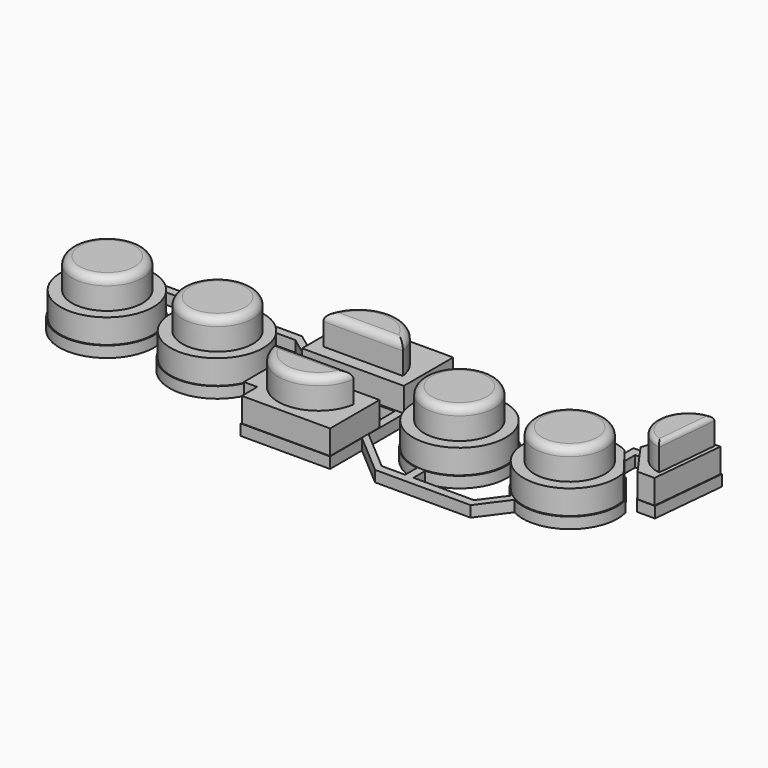
from build123d import *

# Parameters (mm, degrees)
SKETCH015_W  = 7.8
SKETCH015_H  = 2.526756
PAD006_DEPTH = 1
SKETCH059_R  = 4.2
SKETCH059_W  = 9.22
SKETCH059_H  = 5.59297
PAD029_DEPTH = 2.2
SKETCH016_R  = 3.2
PAD030_DEPTH = 2.7
PAD031_DEPTH = 2.4
FILLET009_R  = 0.7
FILLET010_R  = 0.4


with BuildPart() as part:
    # Sketch015 → Pad006 (new body)
    with BuildSketch(Plane.XY.offset(10)):
        with BuildLine():
            ThreePointArc((-21.434946, -34.322054), (-20.939825, -42.899579), (-20.684946, -34.311557))
            Line((-20.684946, -34.311557), (-20.684946, -32.962922))
            Line((-20.684946, -32.962922), (-11.395895, -32.962922))
            Line((-11.395895, -34.318264), (-11.395895, -32.962922))
            ThreePointArc((-11.395895, -34.318264), (-10.979025, -42.899949), (-10.645895, -34.314605))
            Line((-10.645895, -32.962922), (-10.645895, -34.314605))
            Line((-8.419281, -32.962922), (-10.645895, -32.962922))
            Line((-8.419281, -32.962922), (-4.65, -35.730724))
            Line((-4.65, -43.625105), (-4.65, -35.730724))
            Line((-4.65, -43.625105), (-3.46, -43.625105))
            Line((-3.46, -43.625105), (-3.46, -45.365105))
            Line((4.65, -45.365105), (-3.46, -45.365105))
            Line((4.65, -41.749486), (4.65, -45.365105))
            Line((8.419281, -44.977811), (4.65, -41.749486))
            Line((17.078636, -44.977811), (8.419281, -44.977811))
            Line((18.986577, -42.399491), (17.078636, -44.977811))
            ThreePointArc((18.986577, -42.399491), (23.654647, -41.982728), (25.169219, -37.547569))
            Line((23.057843, -34.824383), (25.169219, -37.547569))
            ThreePointArc((23.057843, -34.824383), (22.242657, -34.483472), (21.375, -34.316383))
            Line((21.375, -34.316383), (21.375, -31.700371))
            Line((21.375, -31.700371), (24.243538, -31.700371))
            Line((23.502604, -33.839909), (24.243538, -31.700371))
            Line((25.727333, -36.92627), (23.502604, -33.839909))
            Line((27.348097, -36.92627), (25.727333, -36.92627))
            Line((27.998604, -30.147995), (27.348097, -36.92627))
            Line((26.151167, -30.147995), (27.998604, -30.147995))
            Line((24.666729, -30.478357), (26.151167, -30.147995))
            Line((24.503268, -30.950371), (24.666729, -30.478357))
            Line((24.503268, -30.950371), (20.625, -30.950371))
            Line((20.625, -30.950371), (20.625, -34.316383))
            ThreePointArc((20.625, -34.316383), (16.866436, -37.415242), (18.412813, -42.034598))
            Line((18.412813, -42.034598), (16.789849, -44.227811))
            Line((16.789849, -44.227811), (11.297529, -44.227811))
            Line((11.297529, -44.227811), (11.297529, -42.889694))
            ThreePointArc((11.297529, -42.889694), (11.077768, -34.300703), (10.547529, -42.876128))
            Line((10.547529, -44.227811), (10.547529, -42.876128))
            Line((8.419281, -44.227811), (10.547529, -44.227811))
            Line((4.65, -40.999486), (8.419281, -44.227811))
            Line((4.65, -31.365105), (4.65, -40.999486))
            Line((-4.65, -31.365105), (4.65, -31.365105))
            Line((-4.65, -34.980724), (-4.65, -31.365105))
            Line((-8.419281, -32.212922), (-4.65, -34.980724))
            Line((-21.434946, -32.212922), (-8.419281, -32.212922))
            Line((-21.434946, -34.322054), (-21.434946, -32.212922))
        make_face()
        with Locations((0, -38.365105)):
            Rectangle(SKETCH015_W, SKETCH015_H, mode=Mode.SUBTRACT)
    extrude(amount=PAD006_DEPTH)

    # Sketch059 (on Face50 of Pad006) → Pad029 (join)
    with BuildSketch(Plane.XY.offset(11)):
        with Locations((-20.99, -38.6)):
            Circle(SKETCH059_R)
        with Locations((-10.99, -38.624451)):
            Circle(SKETCH059_R)
        with Locations((10.99, -38.624451)):
            Circle(SKETCH059_R)
        with BuildLine():
            ThreePointArc((22.980985, -34.901895), (17.661819, -41.161876), (25.074435, -37.621535))
            Line((22.980985, -34.901895), (25.074435, -37.621535))
        make_face()
        with Locations((0, -34.160381)):
            Rectangle(SKETCH059_W, SKETCH059_H)
        Polygon((-4.61, -39.716866), (4.61, -39.716866), (4.61, -45.309836), (-3.391323, -45.309836), (-3.391323, -43.557415), (-4.61, -43.557415), align=None)
        Polygon((24.698643, -30.506643), (23.56389, -33.825325), (25.741171, -36.88739), (27.281267, -36.88739), (27.925156, -30.207411), align=None)
    extrude(amount=PAD029_DEPTH)

    # Sketch016 (on Face75 of Pad029) → Pad030 (join)
    with BuildSketch(Plane.XY.offset(13.2)):
        with Locations((-20.96, -38.6)):
            Circle(SKETCH016_R)
        with Locations((-10.96, -38.6)):
            Circle(SKETCH016_R)
        with Locations((10.96, -38.6)):
            Circle(SKETCH016_R)
        with Locations((20.96, -38.6)):
            Circle(SKETCH016_R)
        with BuildLine():
            Line((-3.61, -35.808399), (3.61, -35.808399))
            ThreePointArc((3.61, -35.808399), (0, -32.698235), (-3.61, -35.808399))
        make_face()
        with BuildLine():
            Line((-3.61, -41.398399), (3.61, -41.398399))
            ThreePointArc((-3.61, -41.398399), (0, -44.508564), (3.61, -41.398399))
        make_face()
    extrude(amount=PAD030_DEPTH)

    # Sketch017 (on Face76 of Pad030) → Pad031 (join)
    with BuildSketch(Plane.XY.offset(13.2)):
        with BuildLine():
            Line((27.532025, -30.410749), (27.013062, -36.025665))
            ThreePointArc((27.532025, -30.410749), (24.610614, -32.972176), (27.013062, -36.025665))
        make_face()
    extrude(amount=PAD031_DEPTH)

    # Fillet009
    fillet009_edges = [part.edges().sort_by_distance(p)[0] for p in [
        (-24.16, -38.6, 15.9),
        (-14.16, -38.6, 15.9),
        (7.76, -38.6, 15.9),
        (17.76, -38.6, 15.9),
        (0, -41.398399, 15.9),
        (0, -44.508564, 15.9),
        (0, -35.808399, 15.9),
        (0, -32.698235, 15.9),
    ]]
    fillet(fillet009_edges, radius=FILLET009_R)

    # Fillet010
    fillet010_edges = [part.edges().sort_by_distance(p)[0] for p in [
        (27.272544, -33.218207, 15.6),
        (24.610614, -32.972176, 15.6),
    ]]
    fillet(fillet010_edges, radius=FILLET010_R)


with BuildPart() as part_1:
    # Body004 placement: moved
    add(part.part.moved(Location((0, 0, -2.5))))


solid = part_1.part
